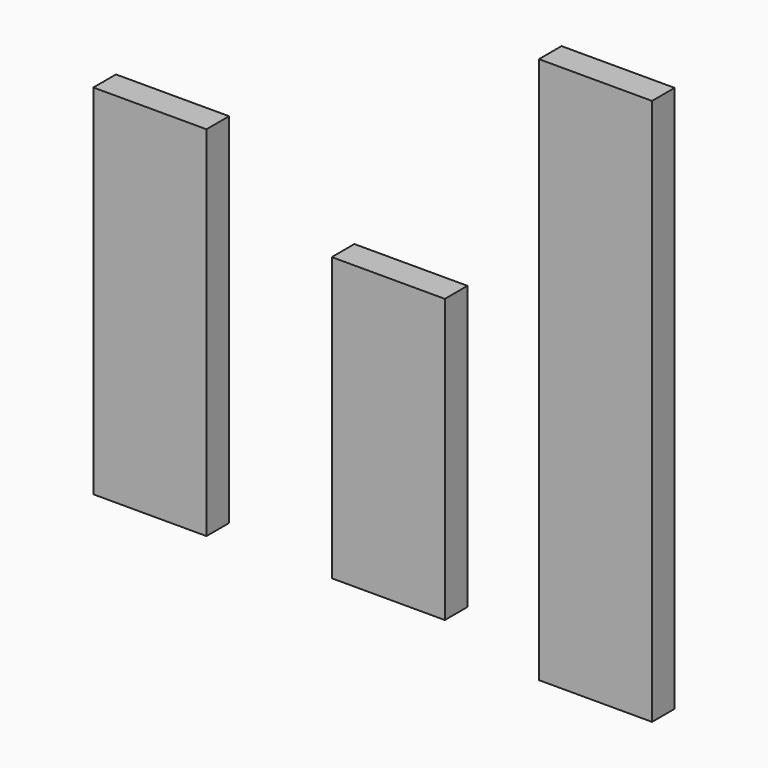
from build123d import *

# Parameters (mm, degrees)
F0_W     = 12
F0_H     = 3
F1_DEPTH = 38
F2_W     = 12
F2_H     = 3
F3_DEPTH = 30
F4_W     = 12
F4_H     = 3
F5_DEPTH = 58


with BuildPart() as f1:
    # F0 (on Top) → F1 (new body)
    with BuildSketch(Plane.XY):
        with Locations((-21.687128, 11.343352)):
            Rectangle(F0_W, F0_H)
    extrude(amount=F1_DEPTH)


with BuildPart() as f3:
    # F2 (on Top) → F3 (new body)
    with BuildSketch(Plane.XY):
        with Locations((3.144744, 11.919553)):
            Rectangle(F2_W, F2_H)
    extrude(amount=F3_DEPTH)


with BuildPart() as f5:
    # F4 (on Top) → F5 (new body)
    with BuildSketch(Plane.XY):
        with Locations((27.961684, 8.371911)):
            Rectangle(F4_W, F4_H)
    extrude(amount=F5_DEPTH)


solid = Compound([f1.part, f3.part, f5.part])
